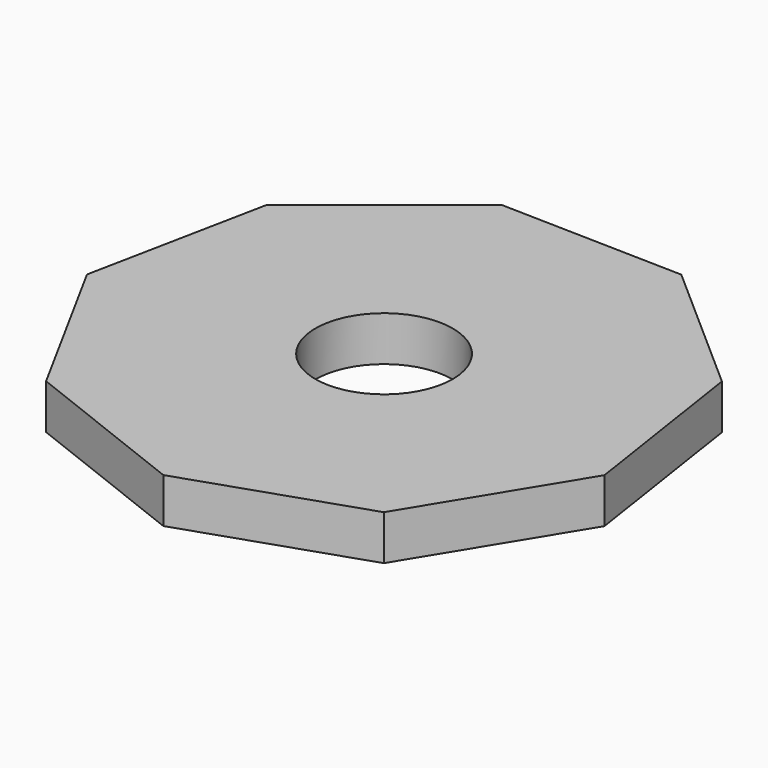
from build123d import *

# Parameters (mm, degrees)
F0_R     = 3.88693
F1_DEPTH = 2.54


with BuildPart() as f1:
    # F0 (on Top) → F1 (new body)
    with BuildSketch(Plane.XY):
        Polygon((-0.364854, -15.162714), (9.466911, -11.849837), (14.869003, -2.992289), (13.313723, 7.265384), (5.528804, 14.123503), (-4.843103, 14.373078), (-12.948869, 7.89733), (-14.995715, -2.273667), (-10.025899, -11.38079), align=None)
        Circle(F0_R, mode=Mode.SUBTRACT)
    extrude(amount=F1_DEPTH)


solid = f1.part
